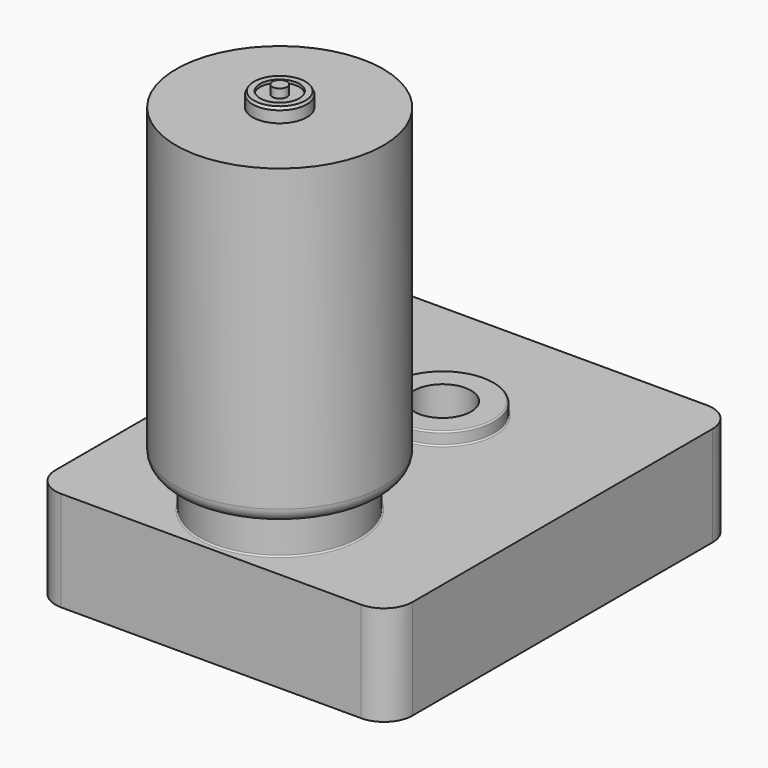
from build123d import *

# Parameters (mm, degrees)
F0_W      = 63.5
F0_H      = 76.835
F0_R      = 14.1732
F0_R_2    = 9.144
F0_R_3    = 5.08
F0_R_4    = 4.445
F1_DEPTH  = 17.78
F2_DEPTH  = 24.892
F3_DEPTH  = 20.066
F4_DEPTH  = 25.4
F5_R      = 18.415
F5_R_2    = 14.1732
F6_DEPTH  = 55.88
F7_DEPTH  = 5.08
F8_R      = 5.08
F9_R      = 0.254
F10_R     = 2.54
F11_R     = 0.254
F12_R     = 4.826
F12_R_2   = 3.4925
F13_DEPTH = 2.54
F12_R_3   = 1.2954
F14_DEPTH = 3.6068
F15_DEPTH = 2.032
F16_SIZE2 = 0.508
F16_SIZE  = 0.254


with BuildPart() as f1:
    # F0 (on Top) → F1 (new body)
    with BuildSketch(Plane.XY):
        with Locations((-10.1280088154, -3.2770447433)):
            Rectangle(F0_W, F0_H)
        with Locations((-10.1280088154, -26.4545447433)):
            Circle(F0_R, mode=Mode.SUBTRACT)
        with Locations((-10.1280088154, 9.7404552567)):
            Circle(F0_R_2, mode=Mode.SUBTRACT)
        with Locations((-10.1280088154, -26.4545447433)):
            Circle(F0_R)
        with Locations((-10.1280088154, 9.7404552567)):
            Circle(F0_R_2)
        with Locations((-10.1280088154, 9.7404552567)):
            Circle(F0_R_3, mode=Mode.SUBTRACT)
        with Locations((-10.1280088154, 9.7404552567)):
            Circle(F0_R_3)
        with Locations((-10.1280088154, 9.7404552567)):
            Circle(F0_R_4, mode=Mode.SUBTRACT)
        with Locations((-10.1280088154, 9.7404552567)):
            Circle(F0_R_4)
    extrude(amount=F1_DEPTH)

    # F0 (on Top) → F2 (join)
    with BuildSketch(Plane.XY):
        with Locations((-10.1280088154, -26.4545447433)):
            Circle(F0_R)
    extrude(amount=F2_DEPTH)

    # F0 (on Top) → F3 (join)
    with BuildSketch(Plane.XY):
        with Locations((-10.1280088154, 9.7404552567)):
            Circle(F0_R_2)
        with Locations((-10.1280088154, 9.7404552567)):
            Circle(F0_R_3, mode=Mode.SUBTRACT)
    extrude(amount=F3_DEPTH)

    # F4 (cut): a face of the model
    f4_faces = [f1.faces().sort_by_distance(p)[0] for p in [
        (-10.1280088154, 9.7404552567, 17.78),
    ]]
    extrude(f4_faces, amount=-F4_DEPTH, mode=Mode.SUBTRACT)

    # F5 (on face) → F6 (join)
    with BuildSketch(Plane.XY.offset(24.892)):
        with Locations((-10.1280088154, -26.4545447433)):
            Circle(F5_R)
        with Locations((-10.1280088154, -26.4545447433)):
            Circle(F5_R_2, mode=Mode.SUBTRACT)
        with Locations((-10.1280088154, -26.4545447433)):
            Circle(F5_R_2)
    extrude(amount=F6_DEPTH)

    # F0 (on Top) → F7 (join)
    with BuildSketch(Plane.XY):
        with Locations((-10.1280088154, 9.7404552567)):
            Circle(F0_R_2)
        with Locations((-10.1280088154, 9.7404552567)):
            Circle(F0_R_3, mode=Mode.SUBTRACT)
    extrude(amount=-F7_DEPTH)

    # F8
    f8_edges = [f1.edges().sort_by_distance(p)[0] for p in [
        (-41.878009, 35.140455, 8.89),
        (21.621991, 35.140455, 8.89),
        (21.621991, -41.694545, 8.89),
        (-41.878009, -41.694545, 8.89),
    ]]
    fillet(f8_edges, radius=F8_R)

    # F9
    f9_edges = [f1.edges().sort_by_distance(p)[0] for p in [
        (-19.272009, 9.740455, 17.78),
        (-0.984009, 9.740455, 18.923),
        (-19.272009, 9.740455, 20.066),
        (-19.272009, 9.740455, 0),
        (-19.272009, 9.740455, -5.08),
    ]]
    fillet(f9_edges, radius=F9_R)

    # F10
    f10_edges = [f1.edges().sort_by_distance(p)[0] for p in [
        (-28.543009, -26.454545, 24.892),
    ]]
    fillet(f10_edges, radius=F10_R)

    # F11
    f11_edges = [f1.edges().sort_by_distance(p)[0] for p in [
        (-24.301209, -26.454545, 17.78),
    ]]
    fillet(f11_edges, radius=F11_R)

    # F12 (on face) → F13 (join)
    with BuildSketch(Plane.XY.offset(80.772)):
        with Locations((-10.1280088154, -26.4545447433)):
            Circle(F12_R)
        with Locations((-10.1280088154, -26.4545447433)):
            Circle(F12_R_2, mode=Mode.SUBTRACT)
    extrude(amount=F13_DEPTH)

    # F12 (on face) → F14 (join)
    with BuildSketch(Plane.XY.offset(80.772)):
        with Locations((-10.1280088154, -26.4545447433)):
            Circle(F12_R_3)
    extrude(amount=F14_DEPTH)

    # F12 (on face) → F15 (join)
    with BuildSketch(Plane.XY.offset(80.772)):
        with Locations((-10.1280088154, -26.4545447433)):
            Circle(F12_R_2)
        with Locations((-10.1280088154, -26.4545447433)):
            Circle(F12_R_3, mode=Mode.SUBTRACT)
    extrude(amount=F15_DEPTH)

    # F16
    f16_edges = [f1.edges().sort_by_distance(p)[0] for p in [
        (-14.954009, -26.454545, 83.312),
    ]]
    f16_side = f1.faces().sort_by_distance((-14.817509, -26.454545, 83.312))[0]
    chamfer(f16_edges, length=F16_SIZE, length2=F16_SIZE2, reference=f16_side)


solid = f1.part
